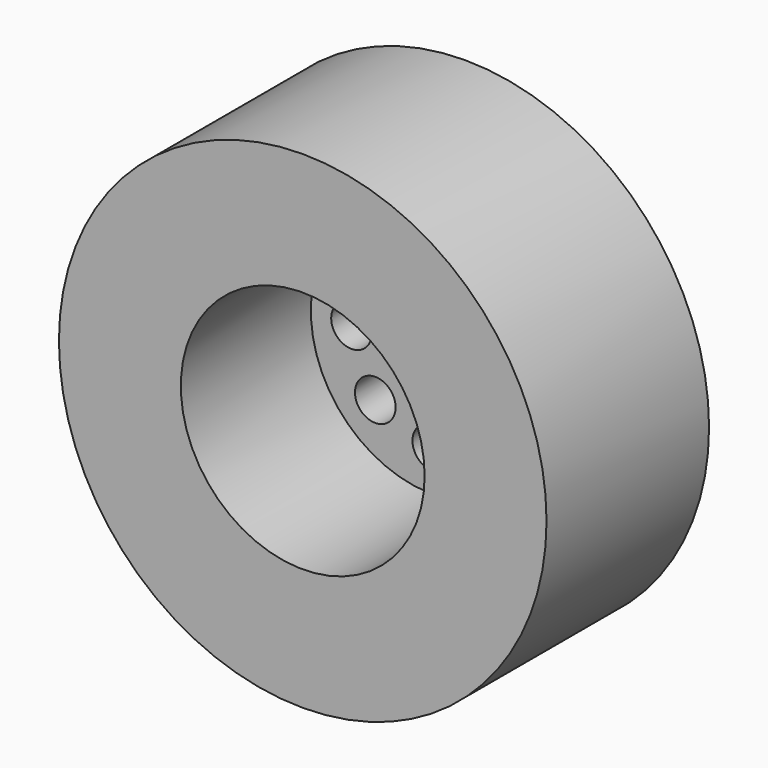
from build123d import *

# Parameters (mm, degrees)
F0_R     = 19.05
F1_DEPTH = 15.875
F2_R     = 9.525
F3_DEPTH = 12.7
F5_R     = 1.5875
F6_DEPTH = 9.525
F7_R     = 1.5875
F8_DEPTH = 25.4


with BuildPart() as f1:
    # F0 (on Front) → F1 (new body)
    with BuildSketch(Plane.XZ):
        Circle(F0_R)
    extrude(amount=-F1_DEPTH)

    # F2 (on face) → F3 (cut)
    with BuildSketch(Plane.XZ):
        Circle(F2_R)
    extrude(amount=-F3_DEPTH, mode=Mode.SUBTRACT)

    # F5 (on face) → F6 (join)
    with BuildSketch(Plane.XZ.offset(-12.7)):
        Circle(F5_R)
    extrude(amount=-F6_DEPTH)

    # F7 (on face) → F8 (cut)
    with BuildSketch(Plane(origin=(0, 15.875, 0), x_dir=(-1, 0, 0), z_dir=(0, 1, 0))):
        with Locations((0, 6.35)):
            Circle(F7_R)
        with Locations((-4.490128, 4.490128)):
            Circle(F7_R)
        with Locations((-6.35, 0)):
            Circle(F7_R)
        with Locations((-4.490128, -4.490128)):
            Circle(F7_R)
        with Locations((0, -6.35)):
            Circle(F7_R)
        with Locations((4.490128, -4.490128)):
            Circle(F7_R)
        with Locations((6.35, 0)):
            Circle(F7_R)
        with Locations((4.490128, 4.490128)):
            Circle(F7_R)
    extrude(amount=-F8_DEPTH, mode=Mode.SUBTRACT)


solid = f1.part
